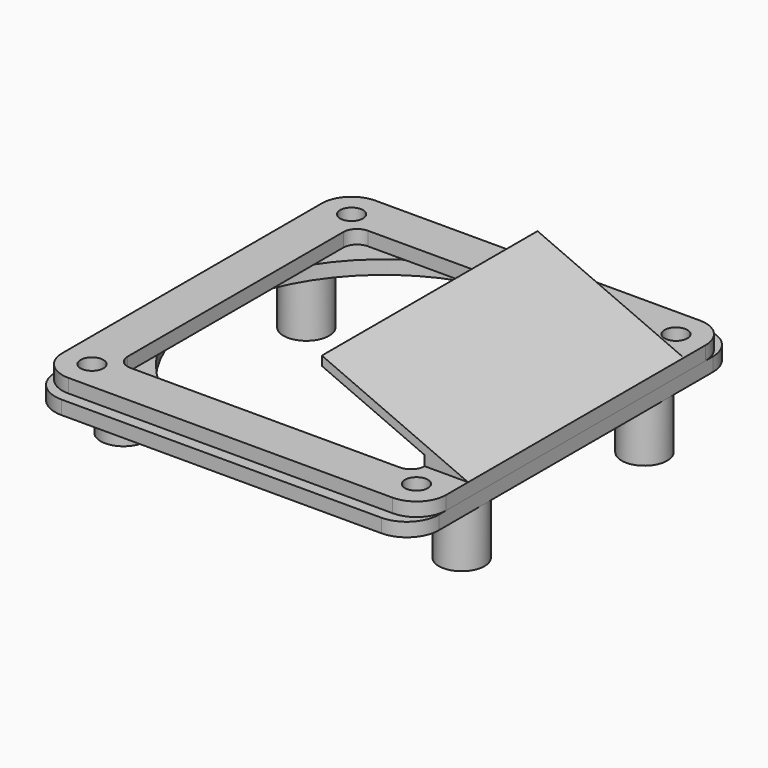
from build123d import *

# Parameters (mm, degrees)
SKETCH_R     = 2.5
SKETCH_R_2   = 39
PAD_DEPTH    = 3
SKETCH001_R  = 5
PAD001_DEPTH = 12
SKETCH003_R  = 2.5
PAD002_DEPTH = 3
PAD003_DEPTH = 29.5


with BuildPart() as body:
    # Sketch → Pad (new body)
    with BuildSketch(Plane.XY):
        with BuildLine():
            Line((-42, 37.5), (-42, -37.5))
            ThreePointArc((-42, -37.5), (-39.949747, -42.449747), (-35, -44.5))
            Line((-35, -44.5), (35, -44.5))
            ThreePointArc((35, -44.5), (39.949747, -42.449747), (42, -37.5))
            Line((42, -37.5), (42, 37.5))
            ThreePointArc((42, 37.5), (39.949747, 42.449747), (35, 44.5))
            Line((35, 44.5), (-35, 44.5))
            ThreePointArc((-35, 44.5), (-39.949747, 42.449747), (-42, 37.5))
        make_face()
        with Locations((-35.5, 35.5)):
            Circle(SKETCH_R, mode=Mode.SUBTRACT)
        with Locations((35.5, 35.5)):
            Circle(SKETCH_R, mode=Mode.SUBTRACT)
        with Locations((35.5, -35.5)):
            Circle(SKETCH_R, mode=Mode.SUBTRACT)
        with Locations((-35.5, -35.5)):
            Circle(SKETCH_R, mode=Mode.SUBTRACT)
        Circle(SKETCH_R_2, mode=Mode.SUBTRACT)
    extrude(amount=PAD_DEPTH)

    # Sketch001 → Pad001 (join)
    with BuildSketch(Plane.XY):
        with Locations((-37, 25)):
            Circle(SKETCH001_R)
        with Locations((37, 25)):
            Circle(SKETCH001_R)
        with Locations((37, -25)):
            Circle(SKETCH001_R)
        with Locations((-37, -25)):
            Circle(SKETCH001_R)
    extrude(amount=-PAD001_DEPTH)


with BuildPart() as vent:
    # Sketch003 → Pad002 (new body)
    with BuildSketch(Plane.XY):
        with BuildLine():
            Line((-42, 35.5), (-42, -35.499994))
            ThreePointArc((-42, -35.499994), (-40.096196, -40.096192), (-35.5, -42))
            Line((-35.5, -42), (35.5, -42))
            ThreePointArc((35.5, -42), (40.096194, -40.096194), (42, -35.5))
            Line((42, -35.5), (42, 35.5))
            ThreePointArc((42, 35.5), (40.096194, 40.096194), (35.5, 42))
            Line((35.5, 42), (-35.5, 42))
            ThreePointArc((-35.5, 42), (-40.096194, 40.096194), (-42, 35.5))
        make_face()
        with Locations((-35.5, 35.5)):
            Circle(SKETCH003_R, mode=Mode.SUBTRACT)
        with Locations((35.5, 35.5)):
            Circle(SKETCH003_R, mode=Mode.SUBTRACT)
        with Locations((35.5, -35.5)):
            Circle(SKETCH003_R, mode=Mode.SUBTRACT)
        with Locations((-35.5, -35.5)):
            Circle(SKETCH003_R, mode=Mode.SUBTRACT)
        with BuildLine():
            Line((-32.5, 29.5), (-32.5, -29.5))
            ThreePointArc((-32.5, -29.5), (-31.62132, -31.62132), (-29.5, -32.5))
            Line((-29.5, -32.5), (29.5, -32.5))
            ThreePointArc((29.5, -32.5), (31.62132, -31.62132), (32.5, -29.5))
            Line((32.5, -29.5), (32.5, 29.5))
            ThreePointArc((32.5, 29.5), (31.62132, 31.62132), (29.5, 32.5))
            Line((29.5, 32.5), (-29.5, 32.5))
            ThreePointArc((-29.5, 32.5), (-31.62132, 31.62132), (-32.5, 29.5))
        make_face(mode=Mode.SUBTRACT)
    extrude(amount=PAD002_DEPTH)

    # Sketch002 → Pad003 (join, symmetric)
    with BuildSketch(Plane.XZ):
        Polygon((10, 17), (42, 3), (32.5, 3), (32.5, 5.15625), (10, 15), align=None)
    extrude(amount=PAD003_DEPTH, both=True)


with BuildPart() as vent_1:
    # Body001 placement: moved
    add(vent.part.moved(Location((0, 0, 3))))


solid = Compound([body.part, vent_1.part])
